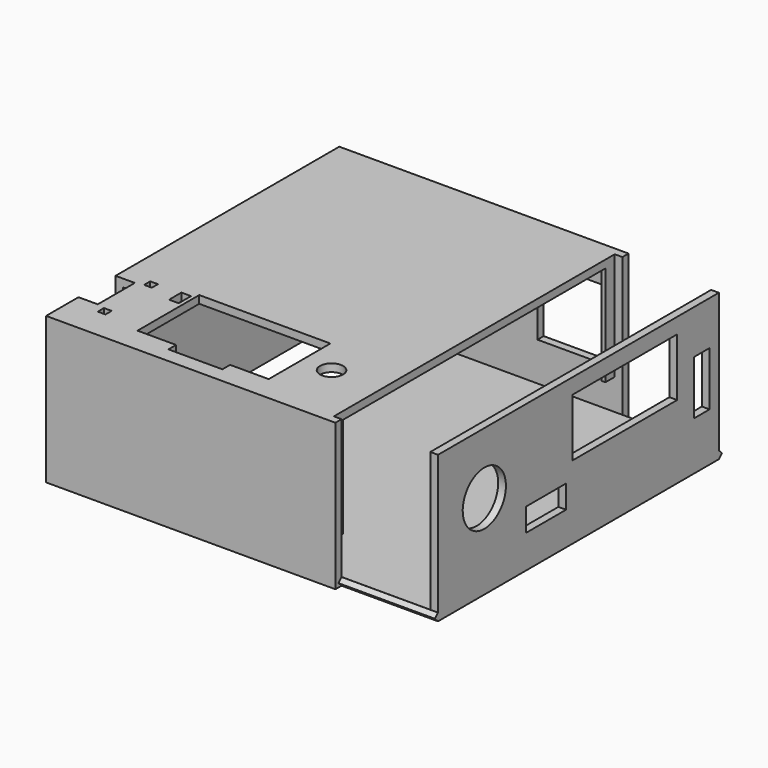
from build123d import *

# Parameters (mm, degrees)
BOX020_W               = 73
BOX020_H               = 1
BOX020_DEPTH           = 2
BOX020_PLACEMENT_ANGLE = 45
BOX019_W               = 73
BOX019_H               = 1
BOX019_DEPTH           = 2
BOX019_PLACEMENT_ANGLE = 45
BOX018_W               = 73
BOX018_H               = 1
BOX018_DEPTH           = 2
CUT012_PLACEMENT_ANGLE = 180
BOX017_W               = 73
BOX017_H               = 91
BOX017_DEPTH           = 2
BOX015_W               = 3
BOX015_H               = 3
BOX015_DEPTH           = 26
BOX013_W               = 40
BOX013_H               = 2
BOX013_DEPTH           = 5
CYLINDER001_R          = 10.5
CYLINDER001_DEPTH      = 2
BOX012_W               = 17
BOX012_H               = 2
BOX012_DEPTH           = 5
BOX011_W               = 20
BOX011_H               = 2
BOX011_DEPTH           = 18
BOX010_W               = 75
BOX010_H               = 2
BOX010_DEPTH           = 38
BOX009_W               = 75
BOX009_H               = 2
BOX009_DEPTH           = 38
BOX008_W               = 2
BOX008_H               = 12
BOX008_DEPTH           = 8
BOX007_W               = 2
BOX007_H               = 91
BOX007_DEPTH           = 38
BOX006_W               = 3
BOX006_H               = 12
BOX006_DEPTH           = 2
BOX005_W               = 2
BOX005_H               = 2
BOX005_DEPTH           = 2
BOX004_W               = 2
BOX004_H               = 2
BOX004_DEPTH           = 2
BOX003_W               = 2.5
BOX003_H               = 4
BOX003_DEPTH           = 2
CYLINDER_R             = 3
CYLINDER_DEPTH         = 2
BOX002_W               = 14
BOX002_H               = 5
BOX002_DEPTH           = 2
BOX001_W               = 34
BOX001_H               = 20
BOX001_DEPTH           = 2
BOX_W                  = 71
BOX_H                  = 91
BOX_DEPTH              = 2
BOX014_W               = 40
BOX014_H               = 2
BOX014_DEPTH           = 5
BOX016_W               = 1
BOX016_H               = 3
BOX016_DEPTH           = 26
BOX026_W               = 2
BOX026_H               = 5
BOX026_DEPTH           = 14
BOX024_W               = 2
BOX024_H               = 13
BOX024_DEPTH           = 6
BOX025_W               = 2
BOX025_H               = 34
BOX025_DEPTH           = 15
CYLINDER002_R          = 7
CYLINDER002_DEPTH      = 2
BOX023_W               = 3
BOX023_H               = 20
BOX023_DEPTH           = 0.4
BOX022_W               = 3
BOX022_H               = 20
BOX022_DEPTH           = 0.4
BOX021_W               = 2
BOX021_H               = 91
BOX021_DEPTH           = 38


with BuildPart() as cube005:
    # Box020 → Box020 (new body)
    with BuildSketch(Plane.XY):
        with Locations((36.5, 0.5)):
            Rectangle(BOX020_W, BOX020_H)
    extrude(amount=BOX020_DEPTH)


with BuildPart() as cube005_1:
    # Box020 placement: moved
    add(cube005.part.moved(Location((0, -9.668, -0.75))).rotate(Axis((0, -9.668, -0.75), (1, 0, 0)), BOX020_PLACEMENT_ANGLE))


with BuildPart() as cube004:
    # Box019 → Box019 (new body)
    with BuildSketch(Plane.XY):
        with Locations((36.5, 0.5)):
            Rectangle(BOX019_W, BOX019_H)
    extrude(amount=BOX019_DEPTH)


with BuildPart() as cube004_1:
    # Box019 placement: moved
    add(cube004.part.moved(Location((0, -10.9, 1.5))).rotate(Axis((0, -10.9, 1.5), (-1, 0, 0)), BOX019_PLACEMENT_ANGLE))


with BuildPart() as cut011:
    # Box018 → Box018 (new body)
    with BuildSketch(Plane(origin=(0, -10, 0), x_dir=(1, 0, 0), z_dir=(0, 0, 1))):
        with Locations((36.5, 0.5)):
            Rectangle(BOX018_W, BOX018_H)
    extrude(amount=BOX018_DEPTH)

    # Cut011: cut Cube004
    add(cube004_1.part, mode=Mode.SUBTRACT)


with BuildPart() as groove_back:
    # Cut012 base: copy of Cut011
    add(cut011.part)

    # Cut012: cut Cube005
    add(cube005_1.part, mode=Mode.SUBTRACT)


with BuildPart() as groove_back_1:
    # Cut012 placement: moved
    add(groove_back.part.moved(Location((-0.5, 81.5, -8))).rotate(Axis((-0.5, 81.5, -8), (1, 0, 0)), CUT012_PLACEMENT_ANGLE))


with BuildPart() as groove_front:
    # Cut013 base: copy of Cut011
    add(cut011.part)

    # Cut013: cut Cube005
    add(cube005_1.part, mode=Mode.SUBTRACT)


with BuildPart() as groove_front_1:
    # Cut013 placement: moved
    add(groove_front.part.moved(Location((-0.5, 8.5, -10))))


with BuildPart() as fusion007:
    # Box017 → Box017 (new body)
    with BuildSketch(Plane(origin=(-0.5, -0.5, -10), x_dir=(1, 0, 0), z_dir=(0, 0, 1))):
        with Locations((36.5, 45.5)):
            Rectangle(BOX017_W, BOX017_H)
    extrude(amount=BOX017_DEPTH)

    # Fusion007: union Groove front
    add(groove_front_1.part)


with BuildPart() as baseplate_groove_cutout:
    # Fusion009 base: copy of Fusion007
    add(fusion007.part)

    # Fusion009: union Groove back
    add(groove_back_1.part)


with BuildPart() as baseplate_groove_cutout_1:
    # Fusion009 placement: moved
    add(baseplate_groove_cutout.part.moved(Location((0, 0, 10))))


with BuildPart() as box015:
    # Box015 → Box015 (new body)
    with BuildSketch(Plane(origin=(67.5, -0.5, 10), x_dir=(1, 0, 0), z_dir=(0, 0, 1))):
        with Locations((1.5, 1.5)):
            Rectangle(BOX015_W, BOX015_H)
    extrude(amount=BOX015_DEPTH)


with BuildPart() as box013:
    # Box013 → Box013 (new body)
    with BuildSketch(Plane(origin=(-0.5, 80.5, 31), x_dir=(1, 0, 0), z_dir=(0, 0, 1))):
        with Locations((20, 1)):
            Rectangle(BOX013_W, BOX013_H)
    extrude(amount=BOX013_DEPTH)


with BuildPart() as cylinder001:
    # Cylinder001 → Cylinder001 (new body)
    with BuildSketch(Plane(origin=(14.5, 92.5, 17.6), x_dir=(1, 0, 0), z_dir=(0, -1, 0))):
        Circle(CYLINDER001_R)
    extrude(amount=CYLINDER001_DEPTH)


with BuildPart() as box012:
    # Box012 → Box012 (new body)
    with BuildSketch(Plane(origin=(29.5, 90.5, 25), x_dir=(1, 0, 0), z_dir=(0, 0, 1))):
        with Locations((8.5, 1)):
            Rectangle(BOX012_W, BOX012_H)
    extrude(amount=BOX012_DEPTH)


with BuildPart() as obj1:
    # Box011 → Box011 (new body)
    with BuildSketch(Plane(origin=(50.5, 90.5, 12), x_dir=(1, 0, 0), z_dir=(0, 0, 1))):
        with Locations((10, 1)):
            Rectangle(BOX011_W, BOX011_H)
    extrude(amount=BOX011_DEPTH)


with BuildPart() as cut010:
    # Box010 → Box010 (new body)
    with BuildSketch(Plane(origin=(-2.5, 90.5, 0), x_dir=(1, 0, 0), z_dir=(0, 0, 1))):
        with Locations((37.5, 1)):
            Rectangle(BOX010_W, BOX010_H)
    extrude(amount=BOX010_DEPTH)

    # Cut008: cut obj1
    add(obj1.part, mode=Mode.SUBTRACT)

    # Cut009: cut Box012
    add(box012.part, mode=Mode.SUBTRACT)

    # Cut010: cut Cylinder001
    add(cylinder001.part, mode=Mode.SUBTRACT)


with BuildPart() as front_side:
    # Box009 → Box009 (new body)
    with BuildSketch(Plane(origin=(-2.5, -2.5, 0), x_dir=(1, 0, 0), z_dir=(0, 0, 1))):
        with Locations((37.5, 1)):
            Rectangle(BOX009_W, BOX009_H)
    extrude(amount=BOX009_DEPTH)


with BuildPart() as usb_cutout_left:
    # Box008 → Box008 (new body)
    with BuildSketch(Plane(origin=(-2.5, 8, 30), x_dir=(1, 0, 0), z_dir=(0, 0, 1))):
        with Locations((1, 6)):
            Rectangle(BOX008_W, BOX008_H)
    extrude(amount=BOX008_DEPTH)


with BuildPart() as cut007:
    # Box007 → Box007 (new body)
    with BuildSketch(Plane(origin=(-2.5, -0.5, 0), x_dir=(1, 0, 0), z_dir=(0, 0, 1))):
        with Locations((1, 45.5)):
            Rectangle(BOX007_W, BOX007_H)
    extrude(amount=BOX007_DEPTH)

    # Cut007: cut USB cutout left
    add(usb_cutout_left.part, mode=Mode.SUBTRACT)


with BuildPart() as usb_cutout_top:
    # Box006 → Box006 (new body)
    with BuildSketch(Plane(origin=(-0.5, 8, 0), x_dir=(1, 0, 0), z_dir=(0, 0, 1))):
        with Locations((1.5, 6)):
            Rectangle(BOX006_W, BOX006_H)
    extrude(amount=BOX006_DEPTH)


with BuildPart() as obj2:
    # Box005 → Box005 (new body)
    with BuildSketch(Plane(origin=(4.5, 5.5, 0), x_dir=(1, 0, 0), z_dir=(0, 0, 1))):
        with Locations((1, 1)):
            Rectangle(BOX005_W, BOX005_H)
    extrude(amount=BOX005_DEPTH)


with BuildPart() as obj3:
    # Box004 → Box004 (new body)
    with BuildSketch(Plane(origin=(4.5, 20.5, 0), x_dir=(1, 0, 0), z_dir=(0, 0, 1))):
        with Locations((1, 1)):
            Rectangle(BOX004_W, BOX004_H)
    extrude(amount=BOX004_DEPTH)


with BuildPart() as led_cutout:
    # Box003 → Box003 (new body)
    with BuildSketch(Plane(origin=(12.5, 18.6, 0), x_dir=(1, 0, 0), z_dir=(0, 0, 1))):
        with Locations((1.25, 2)):
            Rectangle(BOX003_W, BOX003_H)
    extrude(amount=BOX003_DEPTH)


with BuildPart() as rgb_led_cutout:
    # Cylinder → Cylinder (new body)
    with BuildSketch(Plane(origin=(57.5, 15, 0), x_dir=(1, 0, 0), z_dir=(0, 0, 1))):
        Circle(CYLINDER_R)
    extrude(amount=CYLINDER_DEPTH)


with BuildPart() as cube002:
    # Box002 → Box002 (new body)
    with BuildSketch(Plane(origin=(26, 1.5, 0), x_dir=(1, 0, 0), z_dir=(0, 0, 1))):
        with Locations((7, 2.5)):
            Rectangle(BOX002_W, BOX002_H)
    extrude(amount=BOX002_DEPTH)


with BuildPart() as cube001:
    # Box001 → Box001 (new body)
    with BuildSketch(Plane(origin=(16, 4, 0), x_dir=(1, 0, 0), z_dir=(0, 0, 1))):
        with Locations((17, 10)):
            Rectangle(BOX001_W, BOX001_H)
    extrude(amount=BOX001_DEPTH)


with BuildPart() as fusion003:
    # Box → Box (new body)
    with BuildSketch(Plane(origin=(-0.5, -0.5, 0), x_dir=(1, 0, 0), z_dir=(0, 0, 1))):
        with Locations((35.5, 45.5)):
            Rectangle(BOX_W, BOX_H)
    extrude(amount=BOX_DEPTH)

    # Cut: cut Cube001
    add(cube001.part, mode=Mode.SUBTRACT)

    # Cut001: cut Cube002
    add(cube002.part, mode=Mode.SUBTRACT)

    # Cut002: cut RGB LED cutout
    add(rgb_led_cutout.part, mode=Mode.SUBTRACT)

    # Cut003: cut LED cutout
    add(led_cutout.part, mode=Mode.SUBTRACT)

    # Cut004: cut obj3
    add(obj3.part, mode=Mode.SUBTRACT)

    # Cut005: cut obj2
    add(obj2.part, mode=Mode.SUBTRACT)

    # Cut006: cut USB cutout top
    add(usb_cutout_top.part, mode=Mode.SUBTRACT)


with BuildPart() as fusion003_1:
    # Cut006 placement: moved
    add(fusion003.part.moved(Location((0, 0, 36))))

    # Fusion: union Cut007
    add(cut007.part)

    # Fusion001: union Front side
    add(front_side.part)

    # Fusion002: union Cut010
    add(cut010.part)

    # Fusion003: union Box013
    add(box013.part)


with BuildPart() as fusion005:
    # Box014 → Box014 (new body)
    with BuildSketch(Plane(origin=(-0.5, 60.5, 31), x_dir=(1, 0, 0), z_dir=(0, 0, 1))):
        with Locations((20, 1)):
            Rectangle(BOX014_W, BOX014_H)
    extrude(amount=BOX014_DEPTH)

    # Fusion004: union Fusion003
    add(fusion003_1.part)

    # Fusion005: union Box015
    add(box015.part)


with BuildPart() as top_case:
    # Box016 → Box016 (new body)
    with BuildSketch(Plane(origin=(69.5, 87.5, 10), x_dir=(1, 0, 0), z_dir=(0, 0, 1))):
        with Locations((0.5, 1.5)):
            Rectangle(BOX016_W, BOX016_H)
    extrude(amount=BOX016_DEPTH)

    # Fusion006: union Fusion005
    add(fusion005.part)

    # Cut014: cut Baseplate groove cutout
    add(baseplate_groove_cutout_1.part, mode=Mode.SUBTRACT)


with BuildPart() as obj4:
    # Box026 → Box026 (new body)
    with BuildSketch(Plane(origin=(95.5, 82.5, 12.6), x_dir=(1, 0, 0), z_dir=(0, 0, 1))):
        with Locations((1, 2.5)):
            Rectangle(BOX026_W, BOX026_H)
    extrude(amount=BOX026_DEPTH)


with BuildPart() as power_switch_cutout:
    # Box024 → Box024 (new body)
    with BuildSketch(Plane(origin=(95.5, 28, 8.6), x_dir=(1, 0, 0), z_dir=(0, 0, 1))):
        with Locations((1, 6.5)):
            Rectangle(BOX024_W, BOX024_H)
    extrude(amount=BOX024_DEPTH)


with BuildPart() as obj5:
    # Box025 → Box025 (new body)
    with BuildSketch(Plane(origin=(95.5, 43, 19), x_dir=(1, 0, 0), z_dir=(0, 0, 1))):
        with Locations((1, 17)):
            Rectangle(BOX025_W, BOX025_H)
    extrude(amount=BOX025_DEPTH)


with BuildPart() as buzzer_cutout:
    # Cylinder002 → Cylinder002 (new body)
    with BuildSketch(Plane(origin=(95.5, 14.5, 22), x_dir=(0, 0, -1), z_dir=(1, 0, 0))):
        Circle(CYLINDER002_R)
    extrude(amount=CYLINDER002_DEPTH)


with BuildPart() as box023:
    # Box023 → Box023 (new body)
    with BuildSketch(Plane(origin=(85, 60.5, 0), x_dir=(1, 0, 0), z_dir=(0, 0, 1))):
        with Locations((1.5, 10)):
            Rectangle(BOX023_W, BOX023_H)
    extrude(amount=BOX023_DEPTH)


with BuildPart() as box022:
    # Box022 → Box022 (new body)
    with BuildSketch(Plane(origin=(85, 10, 0), x_dir=(1, 0, 0), z_dir=(0, 0, 1))):
        with Locations((1.5, 10)):
            Rectangle(BOX022_W, BOX022_H)
    extrude(amount=BOX022_DEPTH)


with BuildPart() as right_side:
    # Box021 → Box021 (new body)
    with BuildSketch(Plane(origin=(70.5, -0.5, 0), x_dir=(1, 0, 0), z_dir=(0, 0, 1))):
        with Locations((1, 45.5)):
            Rectangle(BOX021_W, BOX021_H)
    extrude(amount=BOX021_DEPTH)


with BuildPart() as bottom_case:
    # Fusion008 base: copy of Fusion007
    add(fusion007.part)

    # Fusion008: union Groove back
    add(groove_back_1.part)


with BuildPart() as bottom_case_1:
    # Fusion008 placement: moved
    add(bottom_case.part.moved(Location((0, 0, 10))))

    # Fusion010: union Right side
    add(right_side.part)


with BuildPart() as bottom_case_2:
    # Fusion010 placement: moved
    add(bottom_case_1.part.moved(Location((25, 0, 0))))

    # Cut015: cut Box022
    add(box022.part, mode=Mode.SUBTRACT)

    # Cut016: cut Box023
    add(box023.part, mode=Mode.SUBTRACT)

    # Cut017: cut Buzzer cutout
    add(buzzer_cutout.part, mode=Mode.SUBTRACT)

    # Cut018: cut obj5
    add(obj5.part, mode=Mode.SUBTRACT)

    # Cut019: cut Power switch cutout
    add(power_switch_cutout.part, mode=Mode.SUBTRACT)

    # Cut020: cut obj4
    add(obj4.part, mode=Mode.SUBTRACT)


solid = Compound([top_case.part, bottom_case_2.part])
